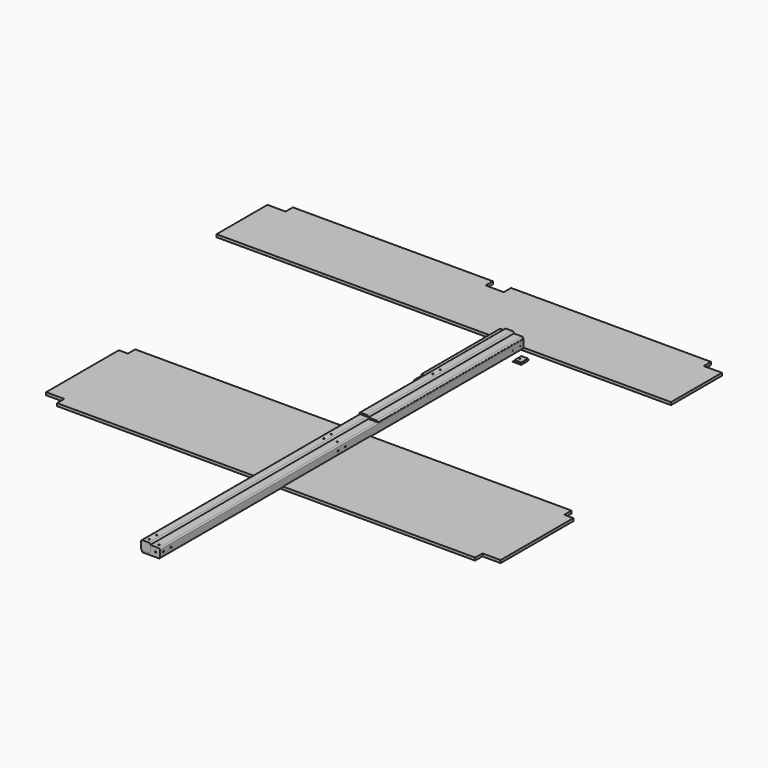
from build123d import *

# Parameters (mm, degrees)
F0_W         = 80
F0_H         = 40
F1_DEPTH     = 2000
F3_R         = 5
F6_D         = 6
F6_ON_F4_D   = 6
F6_ON_F2_D   = 6
F7_W         = 80
F7_H         = 40.8391599854
F8_DEPTH     = 720
F10_R        = 5
F11_D        = 6
F12_W        = 80
F12_H        = 40
F13_DEPTH    = 800
F14_R        = 5
F17_D        = 6
F17_ON_F15_D = 6
F18_W        = 40
F18_H        = 40
F19_DEPTH    = 800
F20_R        = 5
F23_D        = 6
F23_ON_F21_D = 6
F24_W        = 40
F24_H        = 40
F25_DEPTH    = 2000
F26_R        = 5
F29_D        = 6
F29_ON_F27_D = 6
F30_W        = 40
F30_H        = 40
F31_DEPTH    = 720
F32_R        = 5
F34_D        = 6
F36_D        = 6
F38_D        = 6
F39_W        = 80
F39_H        = 40
F40_DEPTH    = 100
F41_R        = 5
F43_D        = 6
F44_W        = 80
F44_H        = 40
F45_DEPTH    = 480
F46_R        = 5
F48_D        = 6
F50_DEPTH    = 12
F52_DEPTH    = 12
F53_W        = 80
F53_H        = 40
F54_DEPTH    = 430
F55_R        = 5
F57_D        = 6
F59_DEPTH    = 40
F62_D        = 6
F62_ON_F60_D = 6
F63_R        = 2
F65_DEPTH    = 40
F66_R        = 2
F68_D        = 6
F69_W        = 80
F69_H        = 40
F70_DEPTH    = 91
F71_R        = 5
F73_D        = 6


with BuildPart() as f1:
    # F0 (on Front) → F1 (new body)
    with BuildSketch(Plane.XZ):
        with Locations((-8.8535640389, 27.0357642571)):
            Rectangle(F0_W, F0_H)
    extrude(amount=F1_DEPTH)

    # F3
    f3_edges = [f1.edges().sort_by_distance(p)[0] for p in [
        (-48.853564, -1000, 47.035764),
        (31.146436, -1000, 47.035764),
        (31.146436, -1000, 7.035764),
        (-48.853564, -1000, 7.035764),
    ]]
    fillet(f3_edges, radius=F3_R)

    # F6 (through all)
    with Locations(Plane(origin=(0, 0, 7.0357642571), x_dir=(1, 0, 0), z_dir=(0, 0, -1))):
        with Locations((11.1464359611, 20), (-28.8535640389, 20), (-28.8535640389, 1000), (11.1464359611, 1000), (-28.8535640389, 1980), (11.1464359611, 1980)):
            Hole(F6_D / 2)

    # F6 on F4 (through all)
    with Locations(Plane(origin=(-48.8535640389, 0, 0), x_dir=(0, -1, 0), z_dir=(-1, 0, 0))):
        with Locations((20, 27.0357642571), (60, 27.0357642571), (1020, 27.0357642571), (980, 27.0357642571), (1940, 27.0357642571), (1980, 27.0357642571)):
            Hole(F6_ON_F4_D / 2)

    # F6 on F2 (through all)
    with Locations(Plane.XZ.offset(2000)):
        with Locations((-28.8535640389, 27.0357642571), (11.1464359611, 27.0357642571)):
            Hole(F6_ON_F2_D / 2)


with BuildPart() as f8:
    # F7 (on Front) → F8 (new body)
    with BuildSketch(Plane.XZ):
        with Locations((-9.876023978, 29.4989752583)):
            Rectangle(F7_W, F7_H)
    extrude(amount=F8_DEPTH)

    # F10
    f10_edges = [f8.edges().sort_by_distance(p)[0] for p in [
        (-49.876024, -360, 49.918555),
        (30.123976, -360, 49.918555),
        (30.123976, -360, 9.079395),
        (-49.876024, -360, 9.079395),
    ]]
    fillet(f10_edges, radius=F10_R)

    # F11 (through all)
    with Locations(Plane.XZ.offset(720)):
        with Locations((-29.876023978, 29.918555251), (10.123976022, 29.918555251)):
            Hole(F11_D / 2)

    # F36 (through all)
    with Locations(Plane.YZ.offset(30.123976022)):
        with Locations((-300, 29.0793952656)):
            Hole(F36_D / 2)


with BuildPart() as f13:
    # F12 (on Front) → F13 (new body)
    with BuildSketch(Plane.XZ):
        with Locations((-10.6608611718, 32.9406028632)):
            Rectangle(F12_W, F12_H)
    extrude(amount=F13_DEPTH)

    # F14
    f14_edges = [f13.edges().sort_by_distance(p)[0] for p in [
        (-50.660861, -400, 52.940603),
        (29.339139, -400, 52.940603),
        (-50.660861, -400, 12.940603),
        (29.339139, -400, 12.940603),
    ]]
    fillet(f14_edges, radius=F14_R)

    # F17 (through all)
    with Locations(Plane(origin=(-50.6608611718, 0, 0), x_dir=(0, -1, 0), z_dir=(-1, 0, 0))):
        with Locations((380, 32.9406028632), (420, 32.9406028632)):
            Hole(F17_D / 2)

    # F17 on F15 (through all)
    with Locations(Plane.XZ.offset(800)):
        with Locations((-30.6608611718, 32.9406028632), (9.3391388282, 32.9406028632)):
            Hole(F17_ON_F15_D / 2)


with BuildPart() as f19:
    # F18 (on Front) → F19 (new body)
    with BuildSketch(Plane.XZ):
        with Locations((-31.7002036609, 40.3421262085)):
            Rectangle(F18_W, F18_H)
    extrude(amount=F19_DEPTH)

    # F20
    f20_edges = [f19.edges().sort_by_distance(p)[0] for p in [
        (-51.700204, -400, 60.342126),
        (-11.700204, -400, 60.342126),
        (-11.700204, -400, 20.342126),
        (-51.700204, -400, 20.342126),
    ]]
    fillet(f20_edges, radius=F20_R)

    # F23 (through all)
    with Locations(Plane.XY.offset(60.3421262085)):
        with Locations((-31.7002036609, -380), (-31.7002036609, -420)):
            Hole(F23_D / 2)

    # F23 on F21 (through all)
    with Locations(Plane.XZ.offset(800)):
        with Locations((-31.7002036609, 40.3421262085)):
            Hole(F23_ON_F21_D / 2)


with BuildPart() as f25:
    # F24 (on Front) → F25 (new body)
    with BuildSketch(Plane.XZ):
        with Locations((-31.7248902284, 34.0005036419)):
            Rectangle(F24_W, F24_H)
    extrude(amount=F25_DEPTH)

    # F26
    f26_edges = [f25.edges().sort_by_distance(p)[0] for p in [
        (-51.72489, -1000, 54.000504),
        (-11.72489, -1000, 54.000504),
        (-11.72489, -1000, 14.000504),
        (-51.72489, -1000, 14.000504),
    ]]
    fillet(f26_edges, radius=F26_R)

    # F29 (through all)
    with Locations(Plane.XY.offset(54.0005036419)):
        with Locations((-31.7248902284, -1980), (-31.7248902284, -1940), (-31.7248902284, -1020), (-31.7248902284, -980), (-31.7248902284, -60), (-31.7248902284, -20)):
            Hole(F29_D / 2)

    # F29 on F27 (through all)
    with Locations(Plane(origin=(-51.7248902284, 0, 0), x_dir=(0, -1, 0), z_dir=(-1, 0, 0))):
        with Locations((1500, 34.0005036419), (1980, 34.0005036419), (1000, 34.0005036419), (500, 34.0005036419), (20, 34.0005036419)):
            Hole(F29_ON_F27_D / 2)


with BuildPart() as f31:
    # F30 (on Front) → F31 (new body)
    with BuildSketch(Plane.XZ):
        with Locations((-35.6186130084, 35.2077714289)):
            Rectangle(F30_W, F30_H)
    extrude(amount=F31_DEPTH)

    # F32
    f32_edges = [f31.edges().sort_by_distance(p)[0] for p in [
        (-55.618613, -360, 55.207771),
        (-15.618613, -360, 55.207771),
        (-15.618613, -360, 15.207771),
        (-55.618613, -360, 15.207771),
    ]]
    fillet(f32_edges, radius=F32_R)

    # F34 (through all)
    with Locations(Plane.XZ.offset(720)):
        with Locations((-35.6186130084, 35.2077714289)):
            Hole(F34_D / 2)

    # F38 (through all)
    with Locations(Plane.YZ.offset(-15.6186130084)):
        with Locations((-300, 35.2077714289)):
            Hole(F38_D / 2)


with BuildPart() as f40:
    # F39 (on Front) → F40 (new body)
    with BuildSketch(Plane.XZ):
        with Locations((-40.3140969574, 24.3013127716)):
            Rectangle(F39_W, F39_H)
    extrude(amount=F40_DEPTH)

    # F41
    f41_edges = [f40.edges().sort_by_distance(p)[0] for p in [
        (-80.314097, -50, 44.301313),
        (-80.314097, -50, 4.301313),
        (-0.314097, -50, 44.301313),
        (-0.314097, -50, 4.301313),
    ]]
    fillet(f41_edges, radius=F41_R)

    # F43 (through all)
    with Locations(Plane.XZ.offset(100)):
        with Locations((-60.3140969574, 24.3013127716), (-20.3140969574, 24.3013127716)):
            Hole(F43_D / 2)


with BuildPart() as f45:
    # F44 (on Front) → F45 (new body)
    with BuildSketch(Plane.XZ):
        with Locations((-27.8375227936, 31.9110175045)):
            Rectangle(F44_W, F44_H)
    extrude(amount=F45_DEPTH)

    # F46
    f46_edges = [f45.edges().sort_by_distance(p)[0] for p in [
        (-67.837523, -240, 51.911018),
        (12.162477, -240, 51.911018),
        (12.162477, -240, 11.911018),
        (-67.837523, -240, 11.911018),
    ]]
    fillet(f46_edges, radius=F46_R)

    # F48 (through all)
    with Locations(Plane.XY.offset(51.9110175045)):
        with Locations((-47.8375227936, -20), (-7.8375227936, -20), (-7.8375227936, -460), (-47.8375227936, -460)):
            Hole(F48_D / 2)


with BuildPart() as f50:
    # F49 (on Top) → F50 (new body)
    with BuildSketch(Plane.XY):
        Polygon((-63.0543068796, -843.6199735569), (-1003.0543068796, -843.6199735569), (-1003.0543068796, -883.6199735569), (-1043.0543068796, -883.7578892708), (-1043.0543068796, -1283.8958049846), (-963.0543068796, -1283.6199735569), (-962.9163911658, -1323.6199735569), (-83.0543068796, -1323.6199735569), (-83.0543068796, -1283.6199735569), (-3.0543068796, -1283.6199735569), (-3.0543068796, -1323.6199735569), (876.9456931204, -1323.6199735569), (876.9456931204, -1283.6199735569), (956.9456931204, -1283.6199735569), (956.9456931204, -883.6199735569), (916.9456931204, -883.6199735569), (916.9456931204, -843.6199735569), (-23.0543068796, -843.6199735569), (-23.0543068796, -883.6199735569), (-63.0543068796, -883.6199735569), align=None)
    extrude(amount=F50_DEPTH)


with BuildPart() as f52:
    # F51 (on Top) → F52 (new body)
    with BuildSketch(Plane.XY):
        Polygon((-360.1892512599, 320), (-1240.1892512599, 320), (-1240.1892512599, 280), (-1320.1892512599, 280), (-1320.1892512599, 0), (679.8107487401, 0), (679.8107487401, 280), (599.8107487401, 280), (599.8107487401, 320), (-280.1892512599, 320), (-280.1892512599, 280), (-360.1892512599, 280), align=None)
    extrude(amount=F52_DEPTH)


with BuildPart() as f54:
    # F53 (on Front) → F54 (new body)
    with BuildSketch(Plane.XZ):
        with Locations((-35.1793046575, 32.0007599938)):
            Rectangle(F53_W, F53_H)
    extrude(amount=F54_DEPTH)

    # F55
    f55_edges = [f54.edges().sort_by_distance(p)[0] for p in [
        (-75.179305, -215, 52.00076),
        (4.820695, -215, 52.00076),
        (4.820695, -215, 12.00076),
        (-75.179305, -215, 12.00076),
    ]]
    fillet(f55_edges, radius=F55_R)

    # F57 (through all)
    with Locations(Plane.XZ.offset(430)):
        with Locations((-55.1793046575, 32.0007599938), (-15.1793046575, 32.0007599938)):
            Hole(F57_D / 2)


with BuildPart() as f59:
    # F58 (on Front) → F59 (new body)
    with BuildSketch(Plane.XZ):
        with BuildLine():
            Line((-5.7551234681, 33.7962503548), (-35.7551234681, 33.7962503548))
            ThreePointArc((-35.7551234681, 33.7962503548), (-52.82619128, 40.8673181666), (-45.7551234681, 23.7962503548))
            Line((-45.7551234681, 23.7962503548), (-5.7551234681, 23.7962503548))
            Line((-5.7551234681, 23.7962503548), (-5.7551234681, 33.7962503548))
        make_face()
    extrude(amount=F59_DEPTH)

    # F62 (through all)
    with Locations(Plane.XY.offset(33.7962503548)):
        with Locations((-25.7551234681, -20)):
            Hole(F62_D / 2)

    # F62 on F60 (through all)
    with Locations(Plane.XZ.offset(40)):
        with Locations((-45.7551234681, 33.7962503548)):
            Hole(F62_ON_F60_D / 2)

    # F63
    f63_edges = [f59.edges().sort_by_distance(p)[0] for p in [
        (-20.755123, -40, 33.79625),
        (-5.755123, -20, 33.79625),
        (-20.755123, 0, 33.79625),
        (-25.755123, -40, 23.79625),
        (-5.755123, -20, 23.79625),
        (-25.755123, 0, 23.79625),
        (-5.755123, -40, 28.79625),
        (-5.755123, 0, 28.79625),
    ]]
    fillet(f63_edges, radius=F63_R)


with BuildPart() as f65:
    # F64 (on Front) → F65 (new body)
    with BuildSketch(Plane.XZ):
        with BuildLine():
            Line((52.6671646908, -22.671688032), (22.6671646908, -22.671688032))
            ThreePointArc((22.6671646908, -22.671688032), (19.7382325027, -29.7427558439), (12.6671646908, -32.671688032))
            Line((12.6671646908, -32.671688032), (52.6671646908, -32.671688032))
            Line((52.6671646908, -32.671688032), (52.6671646908, -22.671688032))
        make_face()
    extrude(amount=F65_DEPTH)

    # F66
    f66_edges = [f65.edges().sort_by_distance(p)[0] for p in [
        (37.667165, -40, -22.671688),
        (37.667165, 0, -22.671688),
        (52.667165, -20, -22.671688),
        (52.667165, 0, -27.671688),
        (52.667165, -40, -27.671688),
        (32.667165, -40, -32.671688),
        (52.667165, -20, -32.671688),
        (32.667165, 0, -32.671688),
    ]]
    fillet(f66_edges, radius=F66_R)

    # F68 (through all)
    with Locations(Plane.XY.offset(-22.671688032)):
        with Locations((30.6671646908, -20)):
            Hole(F68_D / 2)


with BuildPart() as f70:
    # F69 (on Front) → F70 (new body)
    with BuildSketch(Plane.XZ):
        with Locations((-31.325597316, 19.2707609593)):
            Rectangle(F69_W, F69_H)
    extrude(amount=F70_DEPTH)

    # F71
    f71_edges = [f70.edges().sort_by_distance(p)[0] for p in [
        (-71.325597, -45.5, 39.270761),
        (8.674403, -45.5, 39.270761),
        (8.674403, -45.5, -0.729239),
        (-71.325597, -45.5, -0.729239),
    ]]
    fillet(f71_edges, radius=F71_R)

    # F73 (through all)
    with Locations(Plane.XZ.offset(91)):
        with Locations((-51.325597316, 19.2707609593), (-11.325597316, 19.2707609593)):
            Hole(F73_D / 2)


solid = Compound([f1.part, f8.part, f13.part, f19.part, f25.part, f31.part, f40.part, f45.part, f50.part, f52.part, f54.part, f59.part, f65.part, f70.part])
